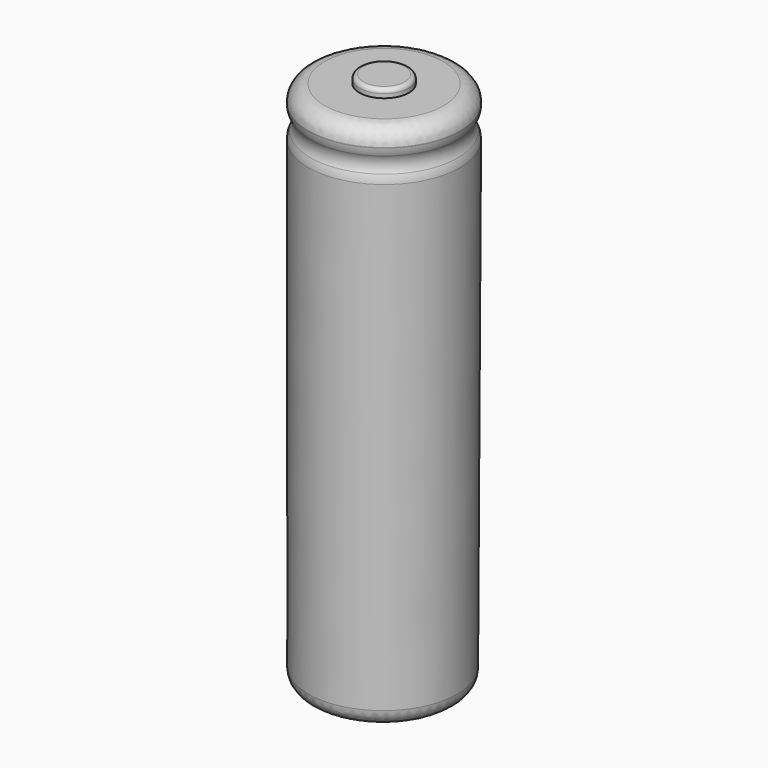
from build123d import *

# Parameters (mm, degrees)
F0_R = 2


with BuildPart() as f3:
    # F2 (on Front) → F3 (revolve)
    with BuildSketch(Plane.XZ):
        with BuildLine():
            Line((-9, -24.8648763779), (0, -24.8648763779))
            Line((0, -24.8648763779), (0.1820707188, 40.1348686236))
            Line((0.1820707188, 40.1348686236), (-2.3179292812, 40.1348686236))
            ThreePointArc((-2.3179292812, 40.1348686236), (-2.6714826718, 39.9884220142), (-2.8179292812, 39.6348686236))
            Line((-2.8179292812, 39.6348686236), (-2.8179292812, 39.1348686236))
            Line((-2.8179292812, 39.1348686236), (-9, 39.1348686236))
            Line((-9, 39.1348686236), (-9, 36.4577442791))
            ThreePointArc((-9, 36.4577442791), (-8.5, 35.1348686236), (-9, 33.8119929681))
            Line((-9, 33.8119929681), (-9, 33.6630154391))
            Line((-9, 33.6630154391), (-9, -24.8648763779))
        make_face()
    revolve(axis=Axis((0.0910353594, 0, 7.6349961229), (-0.002801088, 0, -0.9999960769)))

    # F0
    f0_edges = [f3.edges().sort_by_distance(p)[0] for p in [
        (9.358395, 0, 39.083445),
        (9.328576, 0, 33.760653),
        (9.343398, 0, 36.406363),
        (8.999859, 0, -24.915296),
    ]]
    fillet(f0_edges, radius=F0_R)


solid = f3.part
